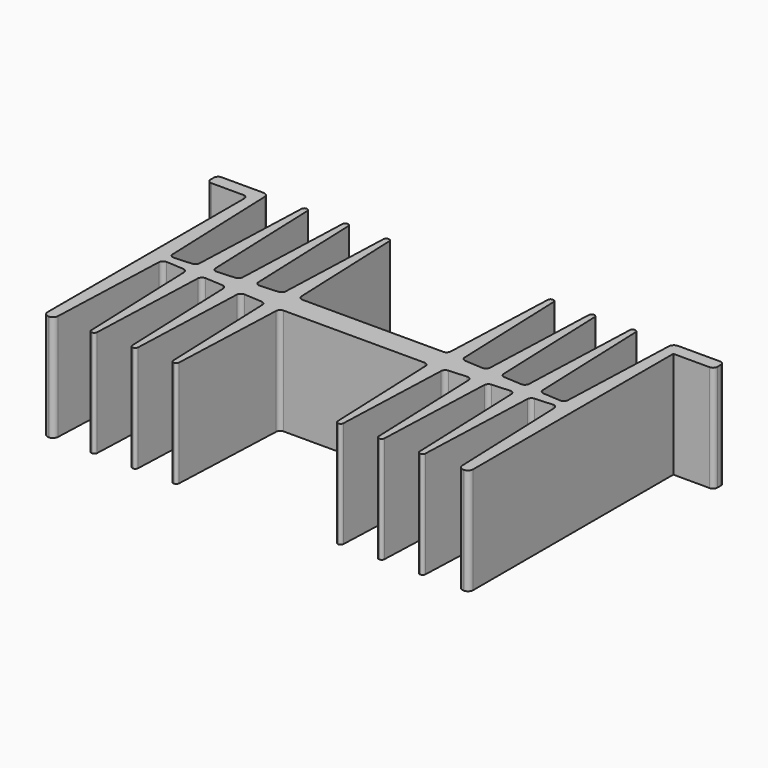
from build123d import *

# Parameters (mm, degrees)
F0_W     = 9.543723
F0_H     = 3
F0_W_2   = 2.456277
F1_DEPTH = 25
F2_R     = 0.65
F3_R     = 1.228
F4_R     = 1


with BuildPart() as f1:
    # F0 (on Top) → F1 (new body)
    with BuildSketch(Plane.XY):
        with Locations((-54.771861, 30)):
            Rectangle(F0_W, F0_H)
        with Locations((-48.771861, 30)):
            Rectangle(F0_W_2, F0_H)
        Polygon((-46.387445, 1), (-47.543723, 31.5), (-47.543723, 28.5), (-50, 28.5), (-50, 0), (-50, -31.5), (-47.543723, -31.5), (-46.387445, -1), (-40.370852, -1), (-40.357002, -1.365324), (-36.780361, -1.581997), (-36.758297, -1), (-30.741703, -1), (-30.705688, -1.95), (-27.173276, -2.163993), (-27.129148, -1), (-21.112555, -1), (-21.054374, -2.534676), (-17.5, -2.75), (0, -2.75), (17.5, -2.75), (21.054374, -2.534676), (21.112555, -1), (27.129148, -1), (27.173276, -2.163993), (30.705688, -1.95), (30.741703, -1), (36.758297, -1), (36.780361, -1.581997), (40.357002, -1.365324), (40.370852, -1), (46.387445, -1), (47.543723, -31.5), (50, -31.5), (50, 0), (50, 28.5), (47.543723, 28.5), (47.543723, 31.5), (46.387445, 1), (40.370852, 1), (40.357002, 1.365324), (36.780361, 1.581997), (36.758297, 1), (30.741703, 1), (30.705688, 1.95), (27.173276, 2.163993), (27.129148, 1), (21.112555, 1), (21.054374, 2.534676), (17.5, 2.75), (0, 2.75), (-17.5, 2.75), (-21.054374, 2.534676), (-21.112555, 1), (-27.129148, 1), (-27.173276, 2.163993), (-30.705688, 1.95), (-30.741703, 1), (-36.758297, 1), (-36.780361, 1.581997), (-40.357002, 1.365324), (-40.370852, 1), align=None)
        Polygon((-36.780361, -1.581997), (-40.357002, -1.365324), (-39.214574, -31.5), (-37.914574, -31.5), align=None)
        Polygon((-39.214574, 31.5), (-40.357002, 1.365324), (-36.780361, 1.581997), (-37.914574, 31.5), align=None)
        Polygon((-27.173276, -2.163993), (-30.705688, -1.95), (-29.585426, -31.5), (-28.285426, -31.5), align=None)
        Polygon((-29.585426, 31.5), (-30.705688, 1.95), (-27.173276, 2.163993), (-28.285426, 31.5), align=None)
        Polygon((-17.5, -2.75), (-21.054374, -2.534676), (-19.956277, -31.5), (-18.656277, -31.5), align=None)
        Polygon((-19.956277, 31.5), (-21.054374, 2.534676), (-17.5, 2.75), (-18.656277, 31.5), align=None)
        Polygon((21.054374, -2.534676), (17.5, -2.75), (18.656277, -31.5), (19.956277, -31.5), align=None)
        Polygon((18.656277, 31.5), (17.5, 2.75), (21.054374, 2.534676), (19.956277, 31.5), align=None)
        Polygon((28.285426, 31.5), (27.173276, 2.163993), (30.705688, 1.95), (29.585426, 31.5), align=None)
        Polygon((30.705688, -1.95), (27.173276, -2.163993), (28.285426, -31.5), (29.585426, -31.5), align=None)
        Polygon((40.357002, -1.365324), (36.780361, -1.581997), (37.914574, -31.5), (39.214574, -31.5), align=None)
        Polygon((37.914574, 31.5), (36.780361, 1.581997), (40.357002, 1.365324), (39.214574, 31.5), align=None)
        with Locations((54.771861, 30)):
            Rectangle(F0_W, F0_H)
        with Locations((48.771861, 30)):
            Rectangle(F0_W_2, F0_H)
        Polygon((-36.758297, -1), (-36.780361, -1.581997), (-30.705688, -1.95), (-30.741703, -1), align=None)
        Polygon((-27.129148, -1), (-27.173276, -2.163993), (-21.054374, -2.534676), (-21.112555, -1), align=None)
        Polygon((-21.054374, 2.534676), (-27.173276, 2.163993), (-27.129148, 1), (-21.112555, 1), align=None)
        Polygon((-30.705688, 1.95), (-36.780361, 1.581997), (-36.758297, 1), (-30.741703, 1), align=None)
        Polygon((-40.357002, 1.365324), (-46.387445, 1), (-40.370852, 1), align=None)
        Polygon((-40.370852, -1), (-46.387445, -1), (-40.357002, -1.365324), align=None)
        Polygon((21.112555, -1), (21.054374, -2.534676), (27.173276, -2.163993), (27.129148, -1), align=None)
        Polygon((27.173276, 2.163993), (21.054374, 2.534676), (21.112555, 1), (27.129148, 1), align=None)
        Polygon((36.780361, 1.581997), (30.705688, 1.95), (30.741703, 1), (36.758297, 1), align=None)
        Polygon((30.741703, -1), (30.705688, -1.95), (36.780361, -1.581997), (36.758297, -1), align=None)
        Polygon((40.370852, -1), (40.357002, -1.365324), (46.387445, -1), align=None)
        Polygon((46.387445, 1), (40.357002, 1.365324), (40.370852, 1), align=None)
    extrude(amount=F1_DEPTH)

    # F2
    f2_edges = [f1.edges().sort_by_distance(p)[0] for p in [
        (29.585426, 31.5, 12.5),
        (28.285426, 31.5, 12.5),
        (39.214574, 31.5, 12.5),
        (37.914574, 31.5, 12.5),
        (19.956277, 31.5, 12.5),
        (18.656277, 31.5, 12.5),
        (-18.656277, 31.5, 12.5),
        (-19.956277, 31.5, 12.5),
        (-28.285426, 31.5, 12.5),
        (-29.585426, 31.5, 12.5),
        (-37.914574, 31.5, 12.5),
        (-39.214574, 31.5, 12.5),
        (-39.214574, -31.5, 12.5),
        (-37.914574, -31.5, 12.5),
        (-29.585426, -31.5, 12.5),
        (-28.285426, -31.5, 12.5),
        (-19.956277, -31.5, 12.5),
        (-18.656277, -31.5, 12.5),
        (18.656277, -31.5, 12.5),
        (19.956277, -31.5, 12.5),
        (28.285426, -31.5, 12.5),
        (29.585426, -31.5, 12.5),
        (37.914574, -31.5, 12.5),
        (39.214574, -31.5, 12.5),
    ]]
    fillet(f2_edges, radius=F2_R)

    # F3
    f3_edges = [f1.edges().sort_by_distance(p)[0] for p in [
        (-50, -31.5, 12.5),
        (-47.543723, -31.5, 12.5),
        (47.543723, -31.5, 12.5),
        (50, -31.5, 12.5),
        (-47.543723, 31.5, 12.5),
        (47.543723, 31.5, 12.5),
    ]]
    fillet(f3_edges, radius=F3_R)

    # F4
    f4_edges = [f1.edges().sort_by_distance(p)[0] for p in [
        (-50, 28.5, 12.5),
        (-40.357002, 1.365324, 12.5),
        (-46.387445, 1, 12.5),
        (-36.780361, 1.581997, 12.5),
        (-30.705688, 1.95, 12.5),
        (-21.054374, 2.534676, 12.5),
        (-27.173276, 2.163993, 12.5),
        (-40.357002, -1.365324, 12.5),
        (-46.387445, -1, 12.5),
        (-30.705688, -1.95, 12.5),
        (-21.054374, -2.534676, 12.5),
        (-27.173276, -2.163993, 12.5),
        (-36.780361, -1.581997, 12.5),
        (-17.5, 2.75, 12.5),
        (-17.5, -2.75, 12.5),
        (17.5, -2.75, 12.5),
        (17.5, 2.75, 12.5),
        (27.173276, 2.163993, 12.5),
        (27.173276, -2.163993, 12.5),
        (36.780361, -1.581997, 12.5),
        (30.705688, -1.95, 12.5),
        (30.705688, 1.95, 12.5),
        (36.780361, 1.581997, 12.5),
        (40.357002, -1.365324, 12.5),
        (40.357002, 1.365324, 12.5),
        (46.387445, 1, 12.5),
        (46.387445, -1, 12.5),
        (-59.543723, 31.5, 12.5),
        (-59.543723, 28.5, 12.5),
        (59.543723, 31.5, 12.5),
        (59.543723, 28.5, 12.5),
        (21.054374, 2.534676, 12.5),
        (21.054374, -2.534676, 12.5),
    ]]
    fillet(f4_edges, radius=F4_R)


solid = f1.part
